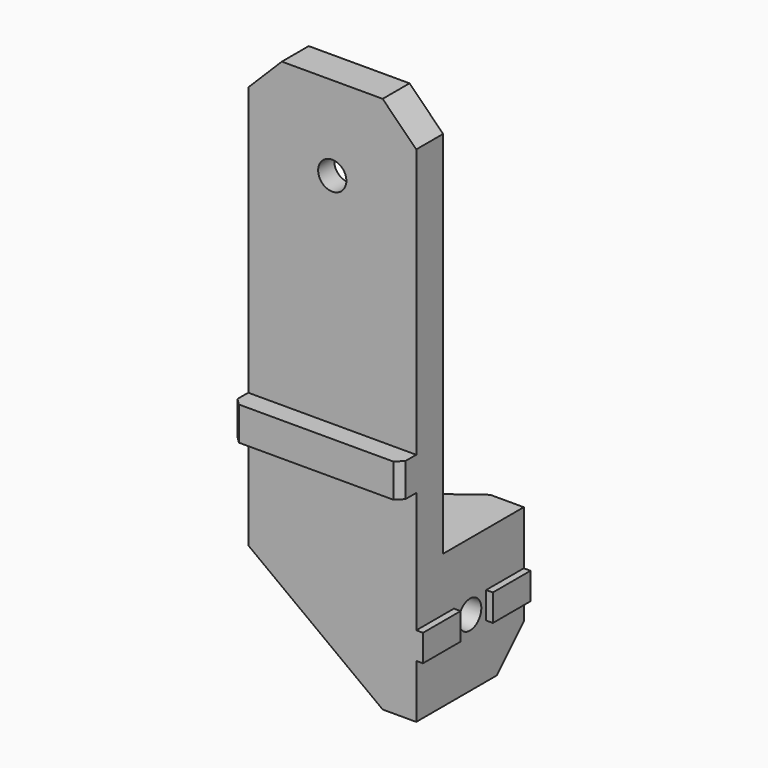
from build123d import *

# Parameters (mm, degrees)
CYLINDER015_R                   = 2.1
CYLINDER015_DEPTH               = 32
CYLINDER018_R                   = 5.5
CYLINDER018_DEPTH               = 2
CYLINDER016_R                   = 2.1
CYLINDER016_DEPTH               = 25
CYLINDER017_R                   = 5.5
CYLINDER017_DEPTH               = 22
BOX032_W                        = 2
BOX032_H                        = 4
BOX032_DEPTH                    = 7
BOX031_W                        = 25
BOX031_H                        = 20
BOX031_DEPTH                    = 5
CHAMFER003001005004_SIZE2       = 20
CHAMFER003001005004_SIZE        = 15
BOX030_W                        = 25
BOX030_H                        = 5
BOX030_DEPTH                    = 20
CHAMFER003001005003_SIZE2       = 20
CHAMFER003001005003_SIZE        = 15
BOX029_W                        = 5
BOX029_H                        = 20
BOX029_DEPTH                    = 20
BOX028_W                        = 25
BOX028_H                        = 60
BOX028_DEPTH                    = 5
BOX027_W                        = 25
BOX027_H                        = 5
BOX027_DEPTH                    = 3
BOX033_W                        = 2
BOX033_H                        = 4
BOX033_DEPTH                    = 7
CHAMFER003001005005_SIZE        = 1
CHAMFER003001005006_SIZE        = 5
CHAMFER003001005007_SIZE        = 5
CUT003023001010_PLACEMENT_ANGLE = 90


with BuildPart() as cylinder015:
    # Cylinder015 → Cylinder015 (new body)
    with BuildSketch(Plane(origin=(82.5, 32.5, -15), x_dir=(1, 0, 0), z_dir=(0, 0, 1))):
        Circle(CYLINDER015_R)
    extrude(amount=CYLINDER015_DEPTH)


with BuildPart() as fusion003013:
    # Cylinder018 → Cylinder018 (new body)
    with BuildSketch(Plane(origin=(82.5, 32.5, -5), x_dir=(1, 0, 0), z_dir=(0, 0, 1))):
        Circle(CYLINDER018_R)
    extrude(amount=CYLINDER018_DEPTH)

    # Fusion003013: union Cylinder015
    add(cylinder015.part)


with BuildPart() as cylinder016:
    # Cylinder016 → Cylinder016 (new body)
    with BuildSketch(Plane(origin=(95, -25, -10), x_dir=(0, 0, 1), z_dir=(-1, 0, 0))):
        Circle(CYLINDER016_R)
    extrude(amount=CYLINDER016_DEPTH)


with BuildPart() as fusion003011:
    # Cylinder017 → Cylinder017 (new body)
    with BuildSketch(Plane(origin=(92, -25, -10), x_dir=(0, 0, 1), z_dir=(-1, 0, 0))):
        Circle(CYLINDER017_R)
    extrude(amount=CYLINDER017_DEPTH)

    # Fusion003011: union Cylinder016
    add(cylinder016.part)


with BuildPart() as cube032:
    # Box032 → Box032 (new body)
    with BuildSketch(Plane(origin=(94, -27, -20), x_dir=(1, 0, 0), z_dir=(0, 0, 1))):
        with Locations((1, 2)):
            Rectangle(BOX032_W, BOX032_H)
    extrude(amount=BOX032_DEPTH)


with BuildPart() as chamfer003001005004:
    # Box031 → Box031 (new body)
    with BuildSketch(Plane(origin=(70, -35, -5), x_dir=(1, 0, 0), z_dir=(0, 0, 1))):
        with Locations((12.5, 10)):
            Rectangle(BOX031_W, BOX031_H)
    extrude(amount=BOX031_DEPTH)

    # Chamfer003001005004
    chamfer003001005004_edges = [chamfer003001005004.edges().sort_by_distance(p)[0] for p in [
        (70, -35, -2.5),
    ]]
    chamfer003001005004_side = chamfer003001005004.faces().sort_by_distance((70, -25, -2.5))[0]
    chamfer(chamfer003001005004_edges, length=CHAMFER003001005004_SIZE, length2=CHAMFER003001005004_SIZE2, reference=chamfer003001005004_side)


with BuildPart() as chamfer003001005003:
    # Box030 → Box030 (new body)
    with BuildSketch(Plane(origin=(70, -20, -20), x_dir=(1, 0, 0), z_dir=(0, 0, 1))):
        with Locations((12.5, 2.5)):
            Rectangle(BOX030_W, BOX030_H)
    extrude(amount=BOX030_DEPTH)

    # Chamfer003001005003
    chamfer003001005003_edges = [chamfer003001005003.edges().sort_by_distance(p)[0] for p in [
        (70, -17.5, -20),
    ]]
    chamfer003001005003_side = chamfer003001005003.faces().sort_by_distance((70, -17.5, -10))[0]
    chamfer(chamfer003001005003_edges, length=CHAMFER003001005003_SIZE, length2=CHAMFER003001005003_SIZE2, reference=chamfer003001005003_side)


with BuildPart() as cube029:
    # Box029 → Box029 (new body)
    with BuildSketch(Plane(origin=(90, -35, -20), x_dir=(1, 0, 0), z_dir=(0, 0, 1))):
        with Locations((2.5, 10)):
            Rectangle(BOX029_W, BOX029_H)
    extrude(amount=BOX029_DEPTH)


with BuildPart() as cube028:
    # Box028 → Box028 (new body)
    with BuildSketch(Plane(origin=(70, -15, -5), x_dir=(1, 0, 0), z_dir=(0, 0, 1))):
        with Locations((12.5, 30)):
            Rectangle(BOX028_W, BOX028_H)
    extrude(amount=BOX028_DEPTH)


with BuildPart() as cube027:
    # Box027 → Box027 (new body)
    with BuildSketch(Plane(origin=(70, -5, 0), x_dir=(1, 0, 0), z_dir=(0, 0, 1))):
        with Locations((12.5, 2.5)):
            Rectangle(BOX027_W, BOX027_H)
    extrude(amount=BOX027_DEPTH)


with BuildPart() as psu_supporter:
    # Box033 → Box033 (new body)
    with BuildSketch(Plane(origin=(94, -27, -7), x_dir=(1, 0, 0), z_dir=(0, 0, 1))):
        with Locations((1, 2)):
            Rectangle(BOX033_W, BOX033_H)
    extrude(amount=BOX033_DEPTH)

    # Fusion003012: union Cube032, Chamfer003001005004, Chamfer003001005003, Cube029, Cube028, Cube027
    add(cube032.part)
    add(chamfer003001005004.part)
    add(chamfer003001005003.part)
    add(cube029.part)
    add(cube028.part)
    add(cube027.part)

    # Chamfer003001005005
    chamfer003001005005_edges = [psu_supporter.edges().sort_by_distance(p)[0] for p in [
        (70, -2.5, 3),
        (95, -2.5, 3),
    ]]
    chamfer(chamfer003001005005_edges, length=CHAMFER003001005005_SIZE)

    # Chamfer003001005006
    chamfer003001005006_edges = [psu_supporter.edges().sort_by_distance(p)[0] for p in [
        (92.5, -35, -20),
    ]]
    chamfer(chamfer003001005006_edges, length=CHAMFER003001005006_SIZE)

    # Cut003023001009: cut Fusion003011
    add(fusion003011.part, mode=Mode.SUBTRACT)

    # Chamfer003001005007
    chamfer003001005007_edges = [psu_supporter.edges().sort_by_distance(p)[0] for p in [
        (95, 45, -2.5),
        (70, 45, -2.5),
    ]]
    chamfer(chamfer003001005007_edges, length=CHAMFER003001005007_SIZE)

    # Cut003023001010: cut Fusion003013
    add(fusion003013.part, mode=Mode.SUBTRACT)


with BuildPart() as psu_supporter_1:
    # Cut003023001010 placement: moved
    add(psu_supporter.part.moved(Location((27, 40, 55))).rotate(Axis((27, 40, 55), (1, 0, 0)), CUT003023001010_PLACEMENT_ANGLE))


solid = psu_supporter_1.part
